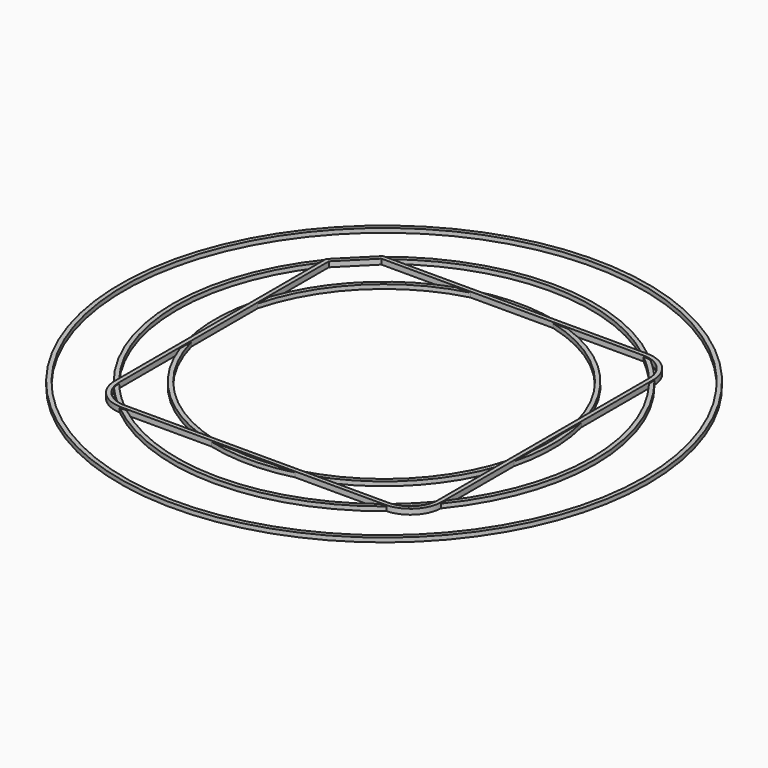
from build123d import *

# Parameters (mm, degrees)
F1_DEPTH = 0.5
F2_R     = 20
F2_R_2   = 19.6
F2_R_3   = 16
F2_R_4   = 15.6
F3_DEPTH = 0.4
F4_R     = 25
F4_R_2   = 24.6
F5_DEPTH = 0.4


with BuildPart() as f1:
    # F0 (on Top) → F1 (new body)
    with BuildSketch(Plane.XY):
        with BuildLine():
            ThreePointArc((15.5, 12.5), (14.62132, 14.62132), (12.5, 15.5))
            Line((12.5, 15.5), (-12.5, 15.5))
            Line((-12.5, 15.5), (-15.5, 12.5))
            Line((-15.5, 12.5), (-15.5, -12.5))
            ThreePointArc((-15.5, -12.5), (-14.62132, -14.62132), (-12.5, -15.5))
            Line((-12.5, -15.5), (12.5, -15.5))
            ThreePointArc((12.5, -15.5), (14.62132, -14.62132), (15.5, -12.5))
            Line((15.5, -12.5), (15.5, 12.5))
        make_face()
        with BuildLine():
            ThreePointArc((15.1, -12.5), (14.338478, -14.338478), (12.5, -15.1))
            Line((12.5, -15.1), (-12.5, -15.1))
            ThreePointArc((-12.5, -15.1), (-14.338478, -14.338478), (-15.1, -12.5))
            Line((-15.1, -12.5), (-15.1, 12.334315))
            Line((-15.1, 12.334315), (-12.334315, 15.1))
            Line((-12.334315, 15.1), (12.5, 15.1))
            ThreePointArc((12.5, 15.1), (14.338478, 14.338478), (15.1, 12.5))
            Line((15.1, 12.5), (15.1, -12.5))
        make_face(mode=Mode.SUBTRACT)
    extrude(amount=F1_DEPTH)

    # F2 (on Top) → F3 (join)
    with BuildSketch(Plane.XY):
        Circle(F2_R)
        Circle(F2_R_2, mode=Mode.SUBTRACT)
        Circle(F2_R_3)
        Circle(F2_R_4, mode=Mode.SUBTRACT)
    extrude(amount=F3_DEPTH)


with BuildPart() as f5:
    # F4 (on Top) → F5 (new body)
    with BuildSketch(Plane.XY):
        Circle(F4_R)
        Circle(F4_R_2, mode=Mode.SUBTRACT)
    extrude(amount=F5_DEPTH)


solid = Compound([f1.part, f5.part])
